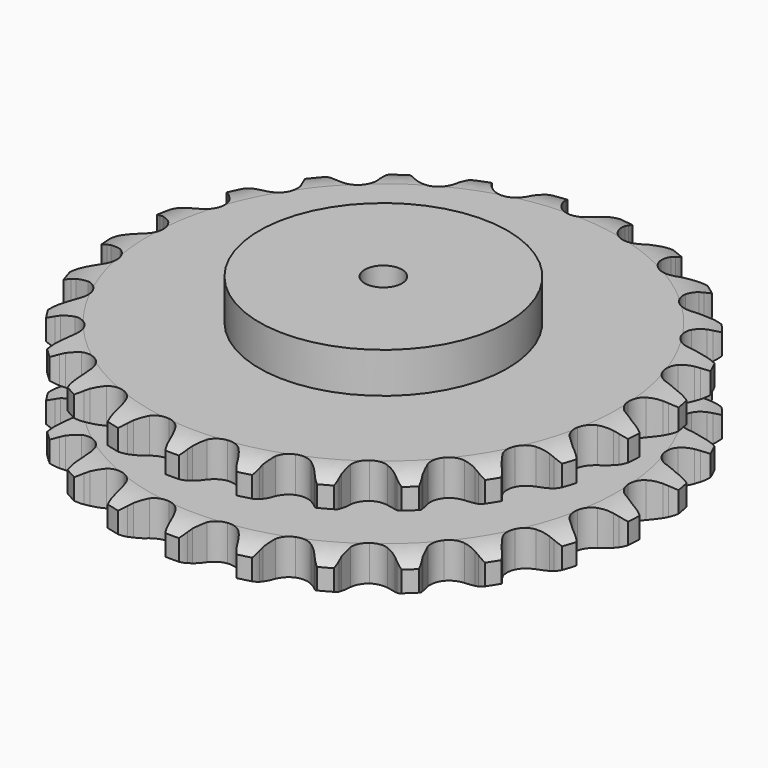
from build123d import *

# Parameters (mm, degrees)
PAD_DEPTH         = 87.4
SKETCH001_R       = 100
PAD001_DEPTH      = 120
SKETCH002_R       = 15
POCKET_DEPTH      = 0.0010001
POCKET_DEPTH_BACK = 120.001


with BuildPart() as part:
    # Sprocket → Pad (new body)
    with BuildSketch(Plane.XY):
        with BuildLine():
            ThreePointArc((-27.4981298187, 217.6701109193), (-21.9996097599, 212.7477079501), (-18.2560568609, 206.3877090882))
            Line((-18.2560568609, 206.3877090882), (-16.8360468316, 202.8084757016))
            ThreePointArc((-16.8360468316, 202.8084757016), (-14.5763060331, 198.0878047474), (-11.6907048576, 193.7215170119))
            ThreePointArc((-11.6907048576, 193.7215170119), (-6.5202910281, 189.4669294209), (0, 187.9436107912))
            ThreePointArc((0, 187.9436107912), (6.5202910281, 189.4669294209), (11.6907048576, 193.7215170119))
            ThreePointArc((11.6907048576, 193.7215170119), (14.5763060331, 198.0878047474), (16.8360468316, 202.8084757016))
            Line((16.8360468316, 202.8084757016), (18.2560568609, 206.3877090882))
            ThreePointArc((18.2560568609, 206.3877090882), (21.9996097599, 212.7477079501), (27.4981298187, 217.6701109193))
            ThreePointArc((27.4981298187, 217.6701109193), (31.5997519199, 211.534927958), (33.6440268212, 204.4437564076))
            Line((33.6440268212, 204.4437564076), (34.1293054773, 200.6238290856))
            ThreePointArc((34.1293054773, 200.6238290856), (35.1440692362, 195.4894920059), (36.8531623403, 190.5427593979))
            ThreePointArc((36.8531623403, 190.5427593979), (40.8030652037, 185.1360078679), (46.739675361, 182.0390166541))
            ThreePointArc((46.739675361, 182.0390166541), (53.4339533946, 181.8929469878), (59.5000020739, 184.7280392541))
            Line((59.5000020739, 184.7280392541), (66.7435283993, 192.2499199119))
            ThreePointArc((66.7435283993, 192.2499199119), (67.8369097288, 193.8353926328), (69.0090453495, 195.3635629659))
            ThreePointArc((69.0090453495, 195.3635629659), (74.2166550495, 200.5927670203), (80.7665808287, 203.9930973156))
            ThreePointArc((80.7665808287, 203.9930973156), (83.2135849707, 197.0306304713), (83.4301325642, 189.6538506203))
            Line((83.4301325642, 189.6538506203), (82.9501880042, 185.8332494453))
            ThreePointArc((82.9501880042, 185.8332494453), (82.6562133846, 180.6078555217), (83.0814098119, 175.3914994437))
            ThreePointArc((83.0814098119, 175.3914994437), (85.5626147856, 169.1723100579), (90.5425250226, 164.6962416079))
            ThreePointArc((90.5425250226, 164.6962416079), (96.990163953, 162.8899617399), (103.5706953342, 164.1274194077))
            Line((103.5706953342, 164.1274194077), (112.4572686123, 169.6115946084))
            ThreePointArc((112.4572686123, 169.6115946084), (113.9105903888, 170.8753439088), (115.4259417212, 172.0640056856))
            ThreePointArc((115.4259417212, 172.0640056856), (121.7703949526, 175.83384481), (128.9601705264, 177.4984471734))
            ThreePointArc((128.9601705264, 177.4984471734), (129.5988024397, 170.1461738441), (127.9740162435, 162.9472959005))
            Line((127.9740162435, 162.9472959005), (126.5590051493, 159.3660832955))
            ThreePointArc((126.5590051493, 159.3660832955), (124.9747636578, 154.3779632458), (124.0893467529, 149.2197465347))
            ThreePointArc((124.0893467529, 149.2197465347), (124.9459506031, 142.5788938348), (128.6562548449, 137.0049959911))
            ThreePointArc((128.6562548449, 137.0049959911), (134.4521258054, 133.6520011286), (141.1336609002, 133.2140701816))
            Line((141.1336609002, 133.2140701816), (151.1049050494, 136.3159490278))
            ThreePointArc((151.1049050494, 136.3159490278), (152.8268497207, 137.1785688914), (154.5902016676, 137.9530341209))
            ThreePointArc((154.5902016676, 137.9530341209), (161.6728531006, 140.0266354587), (169.0507184276, 139.8509168017))
            ThreePointArc((169.0507184276, 139.8509168017), (167.8408505203, 132.5708073604), (164.4768218268, 126.002163301))
            Line((164.4768218268, 126.002163301), (162.2156545495, 122.8853600247))
            ThreePointArc((162.2156545495, 122.8853600247), (159.4406899053, 118.4479357767), (157.3002936688, 113.671968159))
            ThreePointArc((157.3002936688, 113.671968159), (156.4784728253, 107.0267213435), (158.6860390107, 100.705222607))
            ThreePointArc((158.6860390107, 100.705222607), (163.4659661131, 96.0161937487), (169.8286794986, 93.9303909988))
            Line((169.8286794986, 93.9303909988), (180.2580645772, 94.4550710348))
            ThreePointArc((180.2580645772, 94.4550710348), (182.1404360269, 94.8623598832), (184.0409907003, 95.1739660665))
            ThreePointArc((184.0409907003, 95.1739660665), (191.4168112972, 95.4210376196), (198.519187965, 93.4160389916))
            ThreePointArc((198.519187965, 93.4160389916), (195.5368406873, 86.665529489), (190.6449437913, 81.1398513778))
            Line((190.6449437913, 81.1398513778), (187.6796977868, 78.6832976429))
            ThreePointArc((187.6796977868, 78.6832976429), (183.8883712242, 75.0753888817), (180.6274846235, 70.9817619677))
            ThreePointArc((180.6274846235, 70.9817619677), (178.1788771122, 64.7496663335), (178.744995739, 58.0777697187))
            ThreePointArc((178.744995739, 58.0777697187), (182.2086385841, 52.3473357927), (187.8527375779, 48.7447198978))
            Line((187.8527375779, 48.7447198978), (198.0849469649, 46.6592335472))
            ThreePointArc((198.0849469649, 46.6592335472), (200.0094688718, 46.5855999241), (201.9278074319, 46.4147676989))
            ThreePointArc((201.9278074319, 46.4147676989), (209.1333472582, 44.8197850528), (215.5139668201, 41.1114878915))
            ThreePointArc((215.5139668201, 41.1114878915), (210.9465320197, 35.3147376662), (204.8341427943, 31.179224181))
            Line((204.8341427943, 31.179224181), (201.3511353746, 29.5372742932))
            ThreePointArc((201.3511353746, 29.5372742932), (196.781669885, 26.9855791953), (192.6051864178, 23.8315106193))
            ThreePointArc((192.6051864178, 23.8315106193), (188.6836472541, 18.4041516551), (187.5727470069, 11.8010769638))
            ThreePointArc((187.5727470069, 11.8010769638), (189.5024721764, 5.3893022088), (194.0733172812, 0.4962387751))
            Line((194.0733172812, 0.4962387751), (203.4654236294, -4.0683751847))
            ThreePointArc((203.4654236294, -4.0683751847), (205.3111712041, -4.6183046081), (207.126757384, -5.2608412248))
            ThreePointArc((207.126757384, -5.2608412248), (213.7092658723, -8.5976594445), (218.9672105349, -13.7762491903))
            ThreePointArc((218.9672105349, -13.7762491903), (213.1016769383, -18.2550090026), (206.1528592782, -20.7405083402))
            Line((206.1528592782, -20.7405083402), (202.3709406091, -21.4646846308))
            ThreePointArc((202.3709406091, -21.4646846308), (197.3104525145, -22.7998336779), (192.4807959972, -24.8161621875))
            ThreePointArc((192.4807959972, -24.8161621875), (187.3327299092, -29.0977635575), (184.6146127361, -35.217120858))
            ThreePointArc((184.6146127361, -35.217120858), (184.8891685005, -41.9073610533), (188.0995567079, -47.7834228549))
            Line((188.0995567079, -47.7834228549), (196.0614194337, -54.5403529414))
            ThreePointArc((196.0614194337, -54.5403529414), (197.712417568, -55.5320240768), (199.3111714107, -56.6058921464))
            ThreePointArc((199.3111714107, -56.6058921464), (204.8570453439, -61.4748813789), (208.6619391067, -67.7983738699))
            ThreePointArc((208.6619391067, -67.7983738699), (201.8668597616, -70.6777263186), (194.5182334365, -71.3570384442))
            Line((194.5182334365, -71.3570384442), (190.6750353769, -71.1179384778))
            ThreePointArc((190.6750353769, -71.1179384778), (185.4414937555, -71.1526491492), (180.2621292693, -71.9045442566))
            ThreePointArc((180.2621292693, -71.9045442566), (174.2110081824, -74.7713592717), (170.056463382, -80.0224974569))
            ThreePointArc((170.056463382, -80.0224974569), (168.658598393, -86.570830696), (170.3068092049, -93.0606762918))
            Line((170.3068092049, -93.0606762918), (176.3381551915, -101.5853597374))
            ThreePointArc((176.3381551915, -101.5853597374), (177.6906656007, -102.9564622402), (178.9721315225, -104.3941866825))
            ThreePointArc((178.9721315225, -104.3941866825), (183.1329032451, -110.4894104275), (185.2456706395, -117.5604773743))
            ThreePointArc((185.2456706395, -117.5604773743), (177.9480053718, -118.6595021555), (170.6613116, -117.4899433899))
            Line((170.6613116, -117.4899433899), (166.9983164182, -116.3025906968))
            ThreePointArc((166.9983164182, -116.3025906968), (161.9205639377, -115.0346819934), (156.7169300016, -114.4748993637))
            ThreePointArc((156.7169300016, -114.4748993637), (150.1429681083, -115.746795493), (144.8130410097, -119.7997662383))
            ThreePointArc((144.8130410097, -119.7997662383), (141.8305882654, -125.7947366608), (141.8130585349, -132.4905851841))
            Line((141.8130585349, -132.4905851841), (145.5349161323, -142.2473847763))
            ThreePointArc((145.5349161323, -142.2473847763), (146.5039556132, -143.9117672338), (147.3876143972, -145.6230105343))
            ThreePointArc((147.3876143972, -145.6230105343), (149.9018473197, -152.5614834673), (150.1897354001, -159.9358237282))
            ThreePointArc((150.1897354001, -159.9358237282), (142.8480233574, -159.1854650729), (136.0811119073, -156.2405230946))
            Line((136.0811119073, -156.2405230946), (132.8284790622, -154.1795234114))
            ThreePointArc((132.8284790622, -154.1795234114), (128.2255695855, -151.6886626999), (123.3246296573, -149.8523755345))
            ThreePointArc((123.3246296573, -149.8523755345), (116.6408931607, -149.4494348666), (110.4704826857, -152.0495751143))
            ThreePointArc((110.4704826857, -152.0495751143), (106.0908406608, -157.1144966805), (104.4086718453, -163.5956233429))
            Line((104.4086718453, -163.5956233429), (105.5871830525, -173.9714834804))
            ThreePointArc((105.5871830525, -173.9714834804), (106.1118632906, -175.8245666215), (106.5421914057, -177.7018050704))
            ThreePointArc((106.5421914057, -177.7018050704), (107.2519070267, -185.047557419), (105.6968267264, -192.2618140743))
            ThreePointArc((105.6968267264, -192.2618140743), (98.7723746773, -189.7092197765), (92.9504354821, -185.1739361208))
            Line((92.9504354821, -185.1739361208), (90.3125398576, -182.3687896373))
            ThreePointArc((90.3125398576, -182.3687896373), (86.4736911157, -178.8114868571), (82.1833892755, -175.8140758319))
            ThreePointArc((82.1833892755, -175.8140758319), (75.8098419206, -173.7616166109), (69.1866576525, -174.7455499866))
            ThreePointArc((69.1866576525, -174.7455499866), (63.6850153626, -178.5621750471), (60.4439043153, -184.4213468245))
            Line((60.4439043153, -184.4213468245), (59.005018939, -194.764314055))
            ThreePointArc((59.005018939, -194.764314055), (59.0523723454, -196.689661851), (59.0023306934, -198.6149416523))
            ThreePointArc((59.0023306934, -198.6149416523), (57.8629349703, -205.9064127807), (54.5625977036, -212.5072875527))
            ThreePointArc((54.5625977036, -212.5072875527), (48.4904944367, -208.3128464998), (43.9793413477, -202.4721897185))
            Line((43.9793413477, -202.4721897185), (42.1219316276, -199.0991541049))
            ThreePointArc((42.1219316276, -199.0991541049), (39.288352605, -194.6989276725), (35.8782642961, -190.728731146))
            ThreePointArc((35.8782642961, -190.728731146), (30.2153795036, -187.155716933), (23.5555804682, -186.4616192841))
            ThreePointArc((23.5555804682, -186.4616192841), (17.277626332, -188.7901352497), (12.6812239801, -193.6591988309))
            Line((12.6812239801, -193.6591988309), (8.7153524803, -203.3193864846))
            ThreePointArc((8.7153524803, -203.3193864846), (8.2824036662, -205.1960222523), (7.7551365482, -207.0483709955))
            ThreePointArc((7.7551365482, -207.0483709955), (4.8382219048, -213.8274109566), (0, -219.400146607))
            ThreePointArc((0, -219.400146607), (-4.8382219048, -213.8274109566), (-7.7551365482, -207.0483709955))
            Line((-7.7551365482, -207.0483709955), (-8.7153524803, -203.3193864846))
            ThreePointArc((-8.7153524803, -203.3193864846), (-10.3656175923, -198.3527188096), (-12.6812239801, -193.6591988309))
            ThreePointArc((-12.6812239801, -193.6591988309), (-17.277626332, -188.7901352497), (-23.5555804682, -186.4616192841))
            ThreePointArc((-23.5555804682, -186.4616192841), (-30.2153795036, -187.155716933), (-35.8782642961, -190.728731146))
            Line((-35.8782642961, -190.728731146), (-42.1219316276, -199.0991541049))
            ThreePointArc((-42.1219316276, -199.0991541049), (-43.0079788959, -200.8091619174), (-43.9793413477, -202.4721897185))
            ThreePointArc((-43.9793413477, -202.4721897185), (-48.4904944367, -208.3128464998), (-54.5625977036, -212.5072875527))
            ThreePointArc((-54.5625977036, -212.5072875527), (-57.8629349703, -205.9064127807), (-59.0023306934, -198.6149416523))
            Line((-59.0023306934, -198.6149416523), (-59.005018939, -194.764314055))
            ThreePointArc((-59.005018939, -194.764314055), (-59.3682779142, -189.5432791336), (-60.4439043153, -184.4213468245))
            ThreePointArc((-60.4439043153, -184.4213468245), (-63.6850153626, -178.5621750471), (-69.1866576525, -174.7455499866))
            ThreePointArc((-69.1866576525, -174.7455499866), (-75.8098419206, -173.7616166109), (-82.1833892755, -175.8140758319))
            Line((-82.1833892755, -175.8140758319), (-90.3125398576, -182.3687896373))
            ThreePointArc((-90.3125398576, -182.3687896373), (-91.5960119716, -183.8047234147), (-92.9504354821, -185.1739361208))
            ThreePointArc((-92.9504354821, -185.1739361208), (-98.7723746773, -189.7092197765), (-105.6968267264, -192.2618140743))
            ThreePointArc((-105.6968267264, -192.2618140743), (-107.2519070267, -185.047557419), (-106.5421914057, -177.7018050704))
            Line((-106.5421914057, -177.7018050704), (-105.5871830525, -173.9714834804))
            ThreePointArc((-105.5871830525, -173.9714834804), (-104.6406109935, -168.8241381383), (-104.4086718453, -163.5956233429))
            ThreePointArc((-104.4086718453, -163.5956233429), (-106.0908406608, -157.1144966805), (-110.4704826857, -152.0495751143))
            ThreePointArc((-110.4704826857, -152.0495751143), (-116.6408931607, -149.4494348666), (-123.3246296573, -149.8523755345))
            Line((-123.3246296573, -149.8523755345), (-132.8284790622, -154.1795234114))
            ThreePointArc((-132.8284790622, -154.1795234114), (-134.4287307486, -155.2511581534), (-136.0811119073, -156.2405230946))
            ThreePointArc((-136.0811119073, -156.2405230946), (-142.8480233574, -159.1854650729), (-150.1897354001, -159.9358237282))
            ThreePointArc((-150.1897354001, -159.9358237282), (-149.9018473197, -152.5614834673), (-147.3876143972, -145.6230105343))
            Line((-147.3876143972, -145.6230105343), (-145.5349161323, -142.2473847763))
            ThreePointArc((-145.5349161323, -142.2473847763), (-143.3379896428, -137.4971556519), (-141.8130585349, -132.4905851841))
            ThreePointArc((-141.8130585349, -132.4905851841), (-141.8305882654, -125.7947366608), (-144.8130410097, -119.7997662383))
            ThreePointArc((-144.8130410097, -119.7997662383), (-150.1429681083, -115.746795493), (-156.7169300016, -114.4748993637))
            Line((-156.7169300016, -114.4748993637), (-166.9983164182, -116.3025906968))
            ThreePointArc((-166.9983164182, -116.3025906968), (-168.8147979784, -116.9425916515), (-170.6613116, -117.4899433899))
            ThreePointArc((-170.6613116, -117.4899433899), (-177.9480053718, -118.6595021555), (-185.2456706395, -117.5604773743))
            ThreePointArc((-185.2456706395, -117.5604773743), (-183.1329032451, -110.4894104275), (-178.9721315225, -104.3941866825))
            Line((-178.9721315225, -104.3941866825), (-176.3381551915, -101.5853597374))
            ThreePointArc((-176.3381551915, -101.5853597374), (-173.0289152427, -97.5307211968), (-170.3068092049, -93.0606762918))
            ThreePointArc((-170.3068092049, -93.0606762918), (-168.658598393, -86.570830696), (-170.056463382, -80.0224974569))
            ThreePointArc((-170.056463382, -80.0224974569), (-174.2110081824, -74.7713592717), (-180.2621292693, -71.9045442566))
            Line((-180.2621292693, -71.9045442566), (-190.6750353769, -71.1179384778))
            ThreePointArc((-190.6750353769, -71.1179384778), (-192.5936105938, -71.2860920314), (-194.5182334365, -71.3570384442))
            ThreePointArc((-194.5182334365, -71.3570384442), (-201.8668597616, -70.6777263186), (-208.6619391067, -67.7983738699))
            ThreePointArc((-208.6619391067, -67.7983738699), (-204.8570453439, -61.4748813789), (-199.3111714107, -56.6058921464))
            Line((-199.3111714107, -56.6058921464), (-196.0614194337, -54.5403529414))
            ThreePointArc((-196.0614194337, -54.5403529414), (-191.8477977419, -51.436072836), (-188.0995567079, -47.7834228549))
            ThreePointArc((-188.0995567079, -47.7834228549), (-184.8891685005, -41.9073610533), (-184.6146127361, -35.217120858))
            ThreePointArc((-184.6146127361, -35.217120858), (-187.3327299092, -29.0977635575), (-192.4807959972, -24.8161621875))
            Line((-192.4807959972, -24.8161621875), (-202.3709406091, -21.4646846308))
            ThreePointArc((-202.3709406091, -21.4646846308), (-204.2710583458, -21.1504250771), (-206.1528592782, -20.7405083402))
            ThreePointArc((-206.1528592782, -20.7405083402), (-213.1016769383, -18.2550090026), (-218.9672105349, -13.7762491903))
            ThreePointArc((-218.9672105349, -13.7762491903), (-213.7092658723, -8.5976594445), (-207.126757384, -5.2608412248))
            Line((-207.126757384, -5.2608412248), (-203.4654236294, -4.0683751847))
            ThreePointArc((-203.4654236294, -4.0683751847), (-198.6121775422, -2.1095068503), (-194.0733172812, 0.4962387751))
            ThreePointArc((-194.0733172812, 0.4962387751), (-189.5024721764, 5.3893022088), (-187.5727470069, 11.8010769638))
            ThreePointArc((-187.5727470069, 11.8010769638), (-188.6836472541, 18.4041516551), (-192.6051864178, 23.8315106193))
            Line((-192.6051864178, 23.8315106193), (-201.3511353746, 29.5372742932))
            ThreePointArc((-201.3511353746, 29.5372742932), (-203.1134042456, 30.3142008707), (-204.8341427943, 31.179224181))
            ThreePointArc((-204.8341427943, 31.179224181), (-210.9465320197, 35.3147376662), (-215.5139668201, 41.1114878915))
            ThreePointArc((-215.5139668201, 41.1114878915), (-209.1333472582, 44.8197850528), (-201.9278074319, 46.4147676989))
            Line((-201.9278074319, 46.4147676989), (-198.0849469649, 46.6592335472))
            ThreePointArc((-198.0849469649, 46.6592335472), (-192.8970237831, 47.3496072091), (-187.8527375779, 48.7447198978))
            ThreePointArc((-187.8527375779, 48.7447198978), (-182.2086385841, 52.3473357927), (-178.744995739, 58.0777697187))
            ThreePointArc((-178.744995739, 58.0777697187), (-178.1788771122, 64.7496663335), (-180.6274846235, 70.9817619677))
            Line((-180.6274846235, 70.9817619677), (-187.6796977868, 78.6832976429))
            ThreePointArc((-187.6796977868, 78.6832976429), (-189.1933879578, 79.8740740899), (-190.6449437913, 81.1398513778))
            ThreePointArc((-190.6449437913, 81.1398513778), (-195.5368406873, 86.665529489), (-198.519187965, 93.4160389916))
            ThreePointArc((-198.519187965, 93.4160389916), (-191.4168112972, 95.4210376196), (-184.0409907003, 95.1739660665))
            Line((-184.0409907003, 95.1739660665), (-180.2580645772, 94.4550710348))
            ThreePointArc((-180.2580645772, 94.4550710348), (-175.061440594, 93.8335713078), (-169.8286794986, 93.9303909988))
            ThreePointArc((-169.8286794986, 93.9303909988), (-163.4659661131, 96.0161937487), (-158.6860390107, 100.705222607))
            ThreePointArc((-158.6860390107, 100.705222607), (-156.4784728253, 107.0267213435), (-157.3002936688, 113.671968159))
            Line((-157.3002936688, 113.671968159), (-162.2156545495, 122.8853600247))
            ThreePointArc((-162.2156545495, 122.8853600247), (-163.3856552999, 124.4151654778), (-164.4768218268, 126.002163301))
            ThreePointArc((-164.4768218268, 126.002163301), (-167.8408505203, 132.5708073604), (-169.0507184276, 139.8509168017))
            ThreePointArc((-169.0507184276, 139.8509168017), (-161.6728531006, 140.0266354587), (-154.5902016676, 137.9530341209))
            Line((-154.5902016676, 137.9530341209), (-151.1049050494, 136.3159490278))
            ThreePointArc((-151.1049050494, 136.3159490278), (-146.2261032615, 134.4216270255), (-141.1336609002, 133.2140701816))
            ThreePointArc((-141.1336609002, 133.2140701816), (-134.4521258054, 133.6520011286), (-128.6562548449, 137.0049959911))
            ThreePointArc((-128.6562548449, 137.0049959911), (-124.9459506031, 142.5788938348), (-124.0893467529, 149.2197465347))
            Line((-124.0893467529, 149.2197465347), (-126.5590051493, 159.3660832955))
            ThreePointArc((-126.5590051493, 159.3660832955), (-127.3118010292, 161.1387944517), (-127.9740162435, 162.9472959005))
            ThreePointArc((-127.9740162435, 162.9472959005), (-129.5988024397, 170.1461738441), (-128.9601705264, 177.4984471734))
            ThreePointArc((-128.9601705264, 177.4984471734), (-121.7703949526, 175.83384481), (-115.4259417212, 172.0640056856))
            Line((-115.4259417212, 172.0640056856), (-112.4572686123, 169.6115946084))
            ThreePointArc((-112.4572686123, 169.6115946084), (-108.202842079, 166.5634775491), (-103.5706953342, 164.1274194077))
            ThreePointArc((-103.5706953342, 164.1274194077), (-96.990163953, 162.8899617399), (-90.5425250226, 164.6962416079))
            ThreePointArc((-90.5425250226, 164.6962416079), (-85.5626147856, 169.1723100579), (-83.0814098119, 175.3914994437))
            Line((-83.0814098119, 175.3914994437), (-82.9501880042, 185.8332494453))
            ThreePointArc((-82.9501880042, 185.8332494453), (-83.2384780798, 187.7374803432), (-83.4301325642, 189.6538506203))
            ThreePointArc((-83.4301325642, 189.6538506203), (-83.2135849707, 197.0306304713), (-80.7665808287, 203.9930973156))
            ThreePointArc((-80.7665808287, 203.9930973156), (-74.2166550495, 200.5927670203), (-69.0090453495, 195.3635629659))
            Line((-69.0090453495, 195.3635629659), (-66.7435283993, 192.2499199119))
            ThreePointArc((-66.7435283993, 192.2499199119), (-63.3807983865, 188.2395322006), (-59.5000020739, 184.7280392541))
            ThreePointArc((-59.5000020739, 184.7280392541), (-53.4339533946, 181.8929469878), (-46.739675361, 182.0390166541))
            ThreePointArc((-46.739675361, 182.0390166541), (-40.8030652037, 185.1360078679), (-36.8531623403, 190.5427593979))
            Line((-36.8531623403, 190.5427593979), (-34.1293054773, 200.6238290856))
            ThreePointArc((-34.1293054773, 200.6238290856), (-33.9349754229, 202.5399298946), (-33.6440268212, 204.4437564076))
            ThreePointArc((-33.6440268212, 204.4437564076), (-31.5997519199, 211.534927958), (-27.4981298187, 217.6701109193))
        make_face()
    extrude(amount=PAD_DEPTH)

    # Sketch → Groove (revolve, cut)
    with BuildSketch(Plane.XZ):
        with BuildLine():
            ThreePointArc((188.9, 0), (201.2693168769, 1.5227324926), (212.9, 6))
            Line((212.9, 6), (212.9, 22.8))
            ThreePointArc((212.9, 22.8), (201.2693168769, 27.2772675074), (188.9, 28.8))
            Line((100, 28.8), (188.9, 28.8))
            Line((100, 58.6), (100, 28.8))
            Line((188.9, 58.6), (100, 58.6))
            ThreePointArc((188.9, 58.6), (201.2693168769, 60.1227324926), (212.9, 64.6))
            Line((212.9, 64.6), (212.9, 81.4))
            ThreePointArc((212.9, 81.4), (201.2693168769, 85.8772675074), (188.9, 87.4))
            Line((188.9, 87.4), (222.9, 87.4))
            Line((222.9, 87.4), (222.9, 0))
            Line((188.9, 0), (222.9, 0))
        make_face()
    revolve(axis=Axis((0, 0, 0), (0, 0, 1)), mode=Mode.SUBTRACT)

    # Sketch001 → Pad001 (join)
    with BuildSketch(Plane.XY):
        Circle(SKETCH001_R)
    extrude(amount=PAD001_DEPTH)

    # Sketch002 → Pocket (cut, two sides)
    with BuildSketch(Plane.XY) as pocket_sk:
        Circle(SKETCH002_R)
    extrude(amount=-POCKET_DEPTH, mode=Mode.SUBTRACT)
    extrude(pocket_sk.sketch, amount=POCKET_DEPTH_BACK, mode=Mode.SUBTRACT)


solid = part.part
